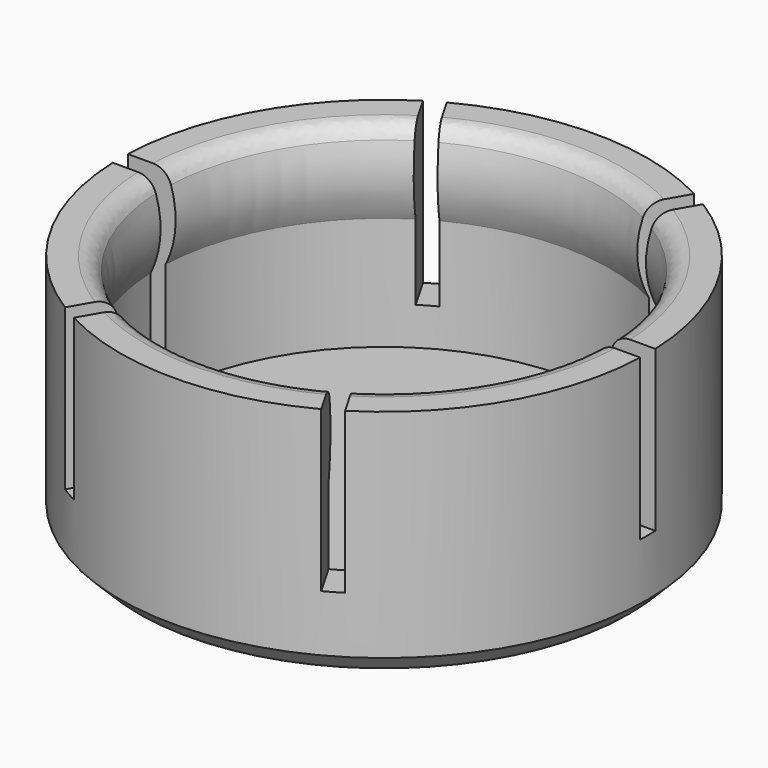
from build123d import *

# Parameters (mm, degrees)
F3_R          = 1
F4_SIZE       = 1
F5_W          = 50
F5_H          = 14
F6_DEPTH      = 0.5
F6_DEPTH_BACK = 0.5
F7_COUNT      = 3


with BuildPart() as f2:
    # F1 (on Front) → F2 (revolve)
    with BuildSketch(Plane.XZ):
        Polygon((0, 2), (0, 0), (14, 0), (14, 12.5), (12, 12.5), (12, 8), (12, 2), align=None)
        with BuildLine():
            Line((12, 8), (12, 12.5))
            ThreePointArc((12, 12.5), (11.4651427749, 10.25), (12, 8))
        make_face()
    revolve(axis=Axis((0, 0, 9.526854381), (0, 0, 1)))

    # F3
    f3_edges = [f2.edges().sort_by_distance(p)[0] for p in [
        (-12, 0, 12.5),
    ]]
    fillet(f3_edges, radius=F3_R)

    # F4
    f4_edges = [f2.edges().sort_by_distance(p)[0] for p in [
        (-14, 0, 0),
    ]]
    chamfer(f4_edges, length=F4_SIZE)


with BuildPart() as f6:
    # F5 (on Front) → F6 (new body, two sides)
    with BuildSketch(Plane.XZ) as f6_sk:
        with Locations((0, 11)):
            Rectangle(F5_W, F5_H)
    extrude(amount=F6_DEPTH)
    extrude(f6_sk.sketch, amount=-F6_DEPTH_BACK)


with BuildPart() as f7_1:
    # F7: instance of F6
    add(f6.part.rotate(Axis((0, 0, 20.1674159616), (0, 0, 1)), 1 * 360 / F7_COUNT))


with BuildPart() as f7_2:
    # F7: instance of F6
    add(f6.part.rotate(Axis((0, 0, 20.1674159616), (0, 0, 1)), 2 * 360 / F7_COUNT))


with BuildPart() as f2_1:
    add(f2.part)

    # F8: cut F7_1, F6, F7_2
    add(f7_1.part, mode=Mode.SUBTRACT)
    add(f6.part, mode=Mode.SUBTRACT)
    add(f7_2.part, mode=Mode.SUBTRACT)


solid = f2_1.part
